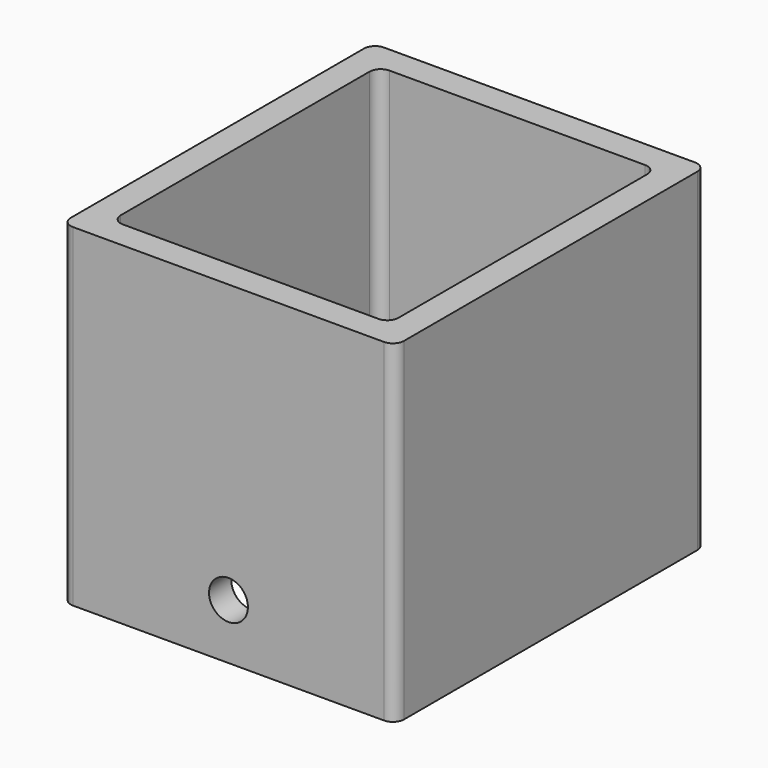
from build123d import *

# Parameters (mm, degrees)
F0_W     = 60
F0_H     = 70
F0_W_2   = 50
F0_H_2   = 60
F1_DEPTH = 60
F2_R     = 2
F3_R     = 3.5
F4_DEPTH = 70


with BuildPart() as f1:
    # F0 (on Top) → F1 (new body)
    with BuildSketch(Plane.XY):
        Rectangle(F0_W, F0_H)
        Rectangle(F0_W_2, F0_H_2, mode=Mode.SUBTRACT)
    extrude(amount=F1_DEPTH)

    # F2
    f2_edges = [f1.edges().sort_by_distance(p)[0] for p in [
        (-30, 35, 30),
        (30, 35, 30),
        (30, -35, 30),
        (-30, -35, 30),
        (-25, 30, 30),
        (25, 30, 30),
        (-25, -30, 30),
        (25, -30, 30),
    ]]
    fillet(f2_edges, radius=F2_R)

    # F3 (on face) → F4 (cut)
    with BuildSketch(Plane(origin=(0, 35, 0), x_dir=(-1, 0, 0), z_dir=(0, 1, 0))):
        with Locations((0, 10)):
            Circle(F3_R)
    extrude(amount=-F4_DEPTH, mode=Mode.SUBTRACT)


solid = f1.part
